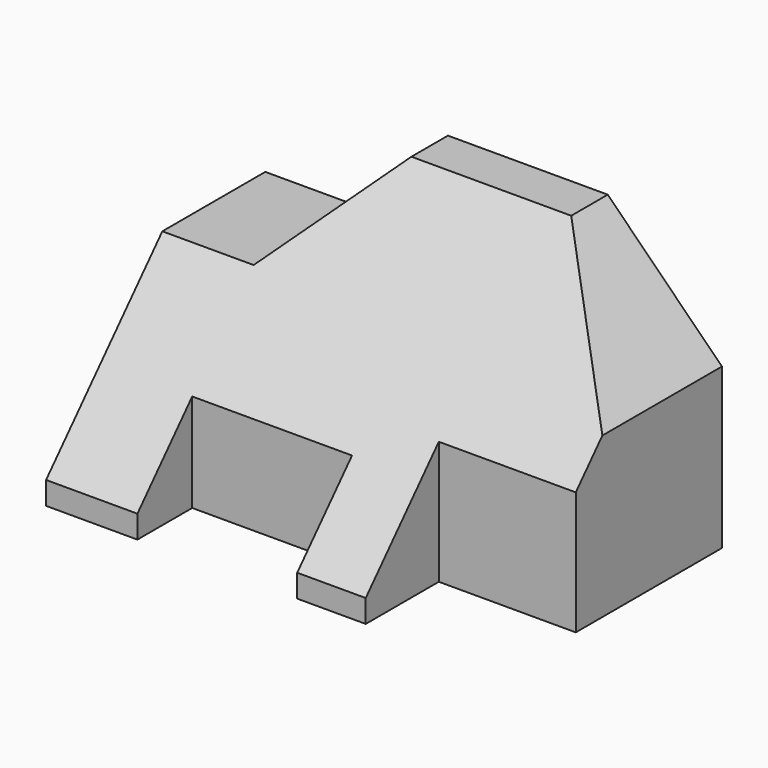
from build123d import *

# Parameters (mm, degrees)
F1_DEPTH = 60
F3_DEPTH = 60.001
F5_DEPTH = 100.001


with BuildPart() as f1:
    # F0 (on Top) → F1 (new body)
    with BuildSketch(Plane.XY):
        Polygon((0, 60), (0, 0), (20, 0), (20, 15), (55, 15), (55, 0), (70, 0), (70, 20), (100, 20), (100, 60), align=None)
    extrude(amount=F1_DEPTH)

    # F2 (on Front) → F3 (cut, through all)
    with BuildSketch(Plane.XZ):
        Polygon((0, 60), (0, 40), (20, 40), (40, 60), align=None)
        Polygon((100, 60), (75, 60), (100, 35), align=None)
    extrude(amount=-F3_DEPTH, mode=Mode.SUBTRACT)

    # F4 (on face) → F5 (cut, through all)
    with BuildSketch(Plane.YZ.offset(100)):
        Polygon((0, 5), (50, 60), (0, 60), align=None)
    extrude(amount=-F5_DEPTH, mode=Mode.SUBTRACT)


solid = f1.part
